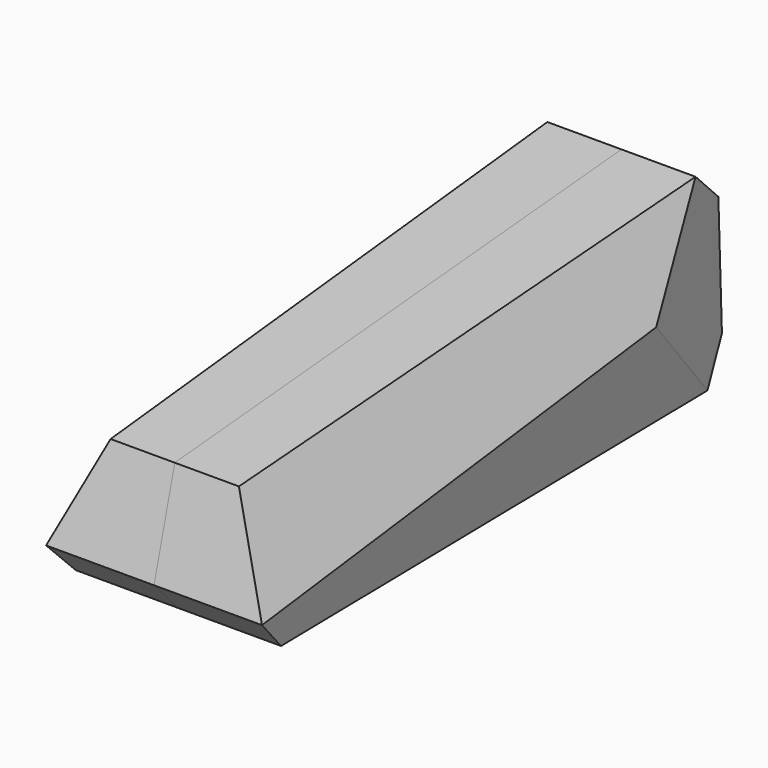
from build123d import *

# Parameters (mm, degrees)
F0_W      = 115
F0_H      = 33
F1_DEPTH  = 25
F3_DEPTH  = 10
F5_DEPTH  = 25
F7_DEPTH  = 25
F9_DEPTH  = 25
F17_W     = 32.7993407845
F17_H     = 37.9629414529
F18_DEPTH = 25


with BuildPart() as f1:
    # F0 (on Right) → F1 (new body)
    with BuildSketch(Plane.YZ):
        with Locations((57.5, 16.5)):
            Rectangle(F0_W, F0_H)
    extrude(amount=-F1_DEPTH)

    # F2 (on face) → F3 (cut)
    with BuildSketch(Plane.YZ):
        Polygon((105.6194698092, 28.6470788404), (6, 19.9315045657), (7.5688033695, 2), (107.1882731786, 10.7155742748), align=None)
    extrude(amount=-F3_DEPTH, mode=Mode.SUBTRACT)

    # F4 (on face) → F5 (cut)
    with BuildSketch(Plane(origin=(-25, 0, 0), x_dir=(0, -1, 0), z_dir=(-1, 0, 0))):
        Polygon((0, 5.8324378915), (-5.4749199189, 0), (-7.2199194692, -11.1495498568), (5.3801964968, -11.1495498568), (5.3801964968, 35.8169563115), (-7.2199194692, 35.8169563115), (-7.2199194692, 33), align=None)
    extrude(amount=-F5_DEPTH, mode=Mode.SUBTRACT)

    # F6 (on face) → F7 (cut)
    with BuildSketch(Plane(origin=(-25, 0, 0), x_dir=(0, -1, 0), z_dir=(-1, 0, 0))):
        Polygon((-115, 33), (-4.6543203298, 23.3460039598), (-3.6770530503, 36.1189024326), (-115, 36.1189024326), align=None)
    extrude(amount=-F7_DEPTH, mode=Mode.SUBTRACT)

    # F8 (on face) → F9 (cut)
    with BuildSketch(Plane(origin=(-25, 0, 0), x_dir=(0, -1, 0), z_dir=(-1, 0, 0))):
        Polygon((-111.9198650122, 25.725428015), (-105.0578312922, 32.1301729472), (-121.2387805595, 36.2967017316), (-121.2387805595, -0.4341204442), (-103.5513704433, -4.0110512893), (-103.5513704433, 0), (-109.6513643861, 5.8324378915), align=None)
    extrude(amount=-F9_DEPTH, mode=Mode.SUBTRACT)

    # F12: sweep along a path in F11
    with BuildLine(Plane(origin=(-25, 0, 0), x_dir=(0, -1, 0), z_dir=(-1, 0, 0))) as f12_path:
        Line((0, 5.8324378915), (-123.256213963, 21.3349461555))
    # F10 (on Front) → F12 (sweep, cut)
    with BuildSketch(Plane.XZ):
        Polygon((-17.2159634531, -18.8802424818), (-16.2341240793, -16.0149671137), (-19.4127131253, 5.8324378915), (-8.9921113104, 28.2314289361), (-7.7811595984, 35.4352965951), (-12.1506929291, 37.1447764337), (-31.8302792653, 37.1447764337), (-30.6645408273, -5.6960321963), (-33.5724785489, -19.3253185429), align=None)
    sweep(path=f12_path.line, mode=Mode.SUBTRACT)

    # F17 (on 3pt) → F18 (cut)
    with BuildSketch(Plane(origin=(-42.4920744612, 12.1698290776, 3.8513417249), x_dir=(-0.2731735514, -0.961646076, 0.0247595513), z_dir=(-0.95772028, 0.2742933184, 0.0868046129))):
        with Locations((-91.7606838048, 14.5058231428)):
            Rectangle(F17_W, F17_H)
    extrude(amount=F18_DEPTH, mode=Mode.SUBTRACT)


with BuildPart() as f19_1:
    # F19: instance of F1
    add(f1.part.mirror(Plane.YZ))


solid = Compound([f1.part, f19_1.part])
